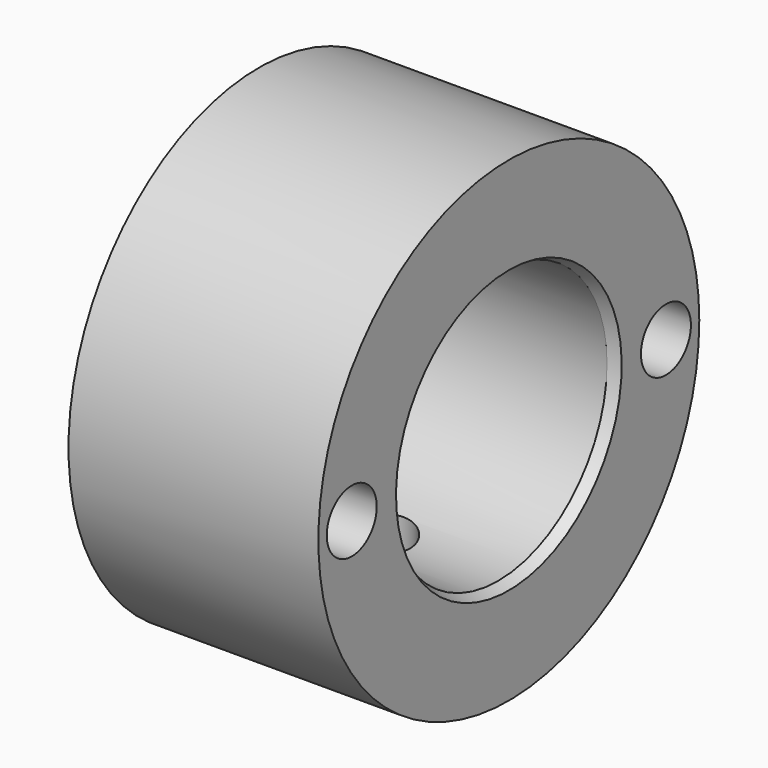
from build123d import *

# Parameters (mm, degrees)
F0_R     = 31.75
F0_R_2   = 4.1656
F1_DEPTH = 33.3248
F4_R     = 4.3053
F5_DEPTH = 32.512


with BuildPart() as f1:
    # F0 (on Right) → F1 (new body)
    with BuildSketch(Plane.YZ):
        Circle(F0_R)
        with Locations((-26.1874, 0)):
            Circle(F0_R_2, mode=Mode.SUBTRACT)
        with Locations((26.1874, 0)):
            Circle(F0_R_2, mode=Mode.SUBTRACT)
    extrude(amount=-F1_DEPTH)

    # F2 (on Front) → F3 (revolve, cut)
    with BuildSketch(Plane.XZ):
        Polygon((0, 18.811576), (-1.4224, 18.1483), (-25.8064, 18.1483), (-27.222632, 17.4879), (-34.925, 17.4879), (-34.925, 0), (0, 0), align=None)
    revolve(axis=Axis((-17.4625, 0, 0), (1, 0, 0)), mode=Mode.SUBTRACT)

    # F4 (on Top) → F5 (cut)
    with BuildSketch(Plane.XY):
        with Locations((-17.4752, 0)):
            Circle(F4_R)
    extrude(amount=-F5_DEPTH, mode=Mode.SUBTRACT)


solid = f1.part
